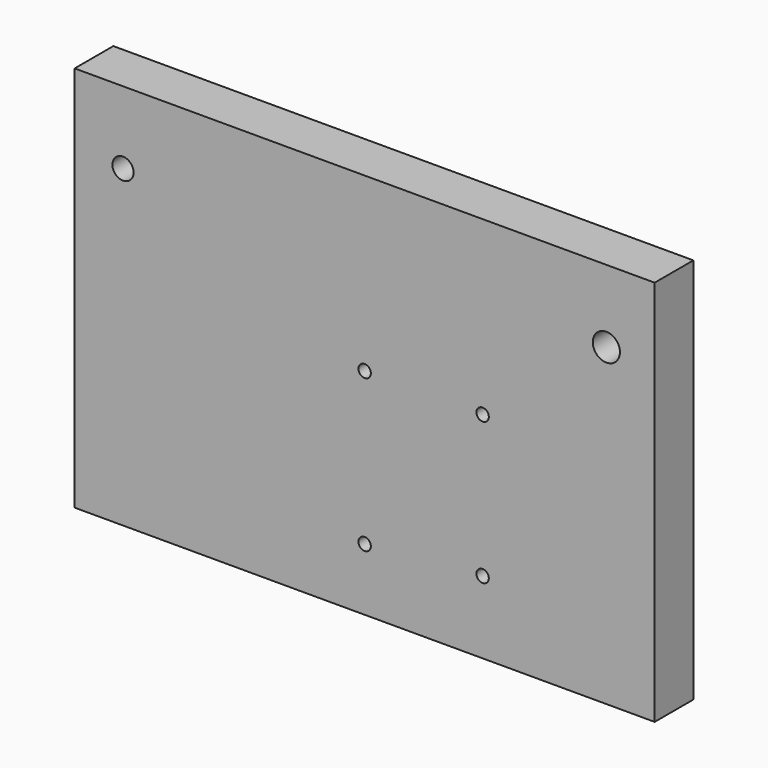
from build123d import *

# Parameters (mm, degrees)
F0_W     = 304.8
F0_H     = 203.2
F0_W_2   = 61.976
F0_H_2   = 74.676
F0_R     = 5.55625
F0_R_2   = 7.14375
F1_DEPTH = 25.4
F2_D     = 6.5278


with BuildPart() as f1:
    # F0 (on Front) → F1 (new body)
    with BuildSketch(Plane.XZ):
        Rectangle(F0_W, F0_H)
        with Locations((30.988, -26.162)):
            Rectangle(F0_W_2, F0_H_2, mode=Mode.SUBTRACT)
        with Locations((-127, 63.5)):
            Circle(F0_R, mode=Mode.SUBTRACT)
        with Locations((127, 63.5)):
            Circle(F0_R_2, mode=Mode.SUBTRACT)
        with Locations((30.988, -26.162)):
            Rectangle(F0_W_2, F0_H_2)
    extrude(amount=F1_DEPTH)

    # F2 (through all)
    with Locations(Plane(origin=(0, 0, 0), x_dir=(1, 0, 0), z_dir=(0, 1, 0))):
        with Locations((0, -11.176), (61.976, -11.176), (61.976, 63.5), (0, 68.834)):
            Hole(F2_D / 2)


solid = f1.part
